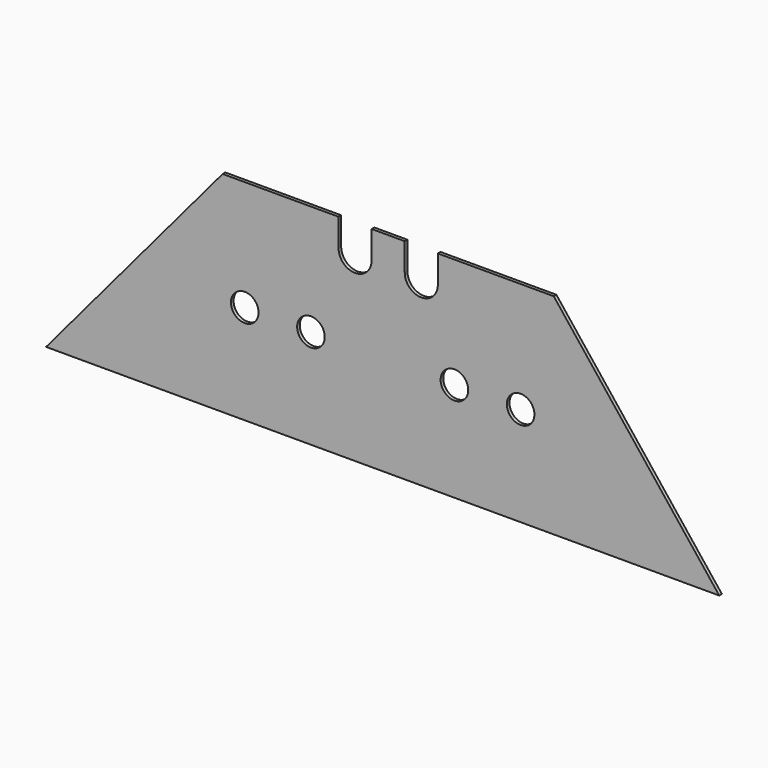
from build123d import *

# Parameters (mm, degrees)
F0_R     = 1.25
F1_DEPTH = 0.3


with BuildPart() as f1:
    # F0 (on Front) → F1 (new body)
    with BuildSketch(Plane.XZ):
        with BuildLine():
            Line((16.0137404315, 19), (0.0137404315, 0))
            Line((0.0137404315, 0), (26.5138867844, 0))
            Line((26.5138867844, 0), (35.5130579084, 0))
            Line((35.5130579084, 0), (35.5130579084, 16.4547550706))
            ThreePointArc((35.5130579084, 16.4547550706), (33.9867227769, 15.0002433376), (32.5137661653, 16.5087863881))
            Line((32.5137661653, 16.5087863881), (32.5137661653, 19))
            Line((32.5137661653, 19), (29.5137404315, 19))
            Line((29.5137404315, 19), (29.5137404315, 16.5))
            ThreePointArc((29.5137404315, 16.5), (28.0032635672, 15.0000365887), (26.5138867844, 16.5209532174))
            Line((26.5138867844, 16.5209532174), (26.5138867844, 19))
            Line((26.5138867844, 19), (16.0137404315, 19))
        make_face()
        with Locations((18.0137404315, 9)):
            Circle(F0_R, mode=Mode.SUBTRACT)
        with Locations((24.0137404315, 9)):
            Circle(F0_R, mode=Mode.SUBTRACT)
        with BuildLine():
            Line((35.5130579084, 16.4547550706), (35.5130579084, 0))
            Line((35.5130579084, 0), (61.0137404315, 0))
            Line((61.0137404315, 0), (46.0137404315, 19))
            Line((46.0137404315, 19), (35.5130579084, 19))
            Line((35.5130579084, 19), (35.5130579084, 16.5452449294))
            ThreePointArc((35.5130579084, 16.5452449294), (35.5137404315, 16.5), (35.5130579084, 16.4547550706))
        make_face()
        with Locations((37.0137404315, 9)):
            Circle(F0_R, mode=Mode.SUBTRACT)
        with Locations((43.0137404315, 9)):
            Circle(F0_R, mode=Mode.SUBTRACT)
    extrude(amount=F1_DEPTH)


solid = f1.part
